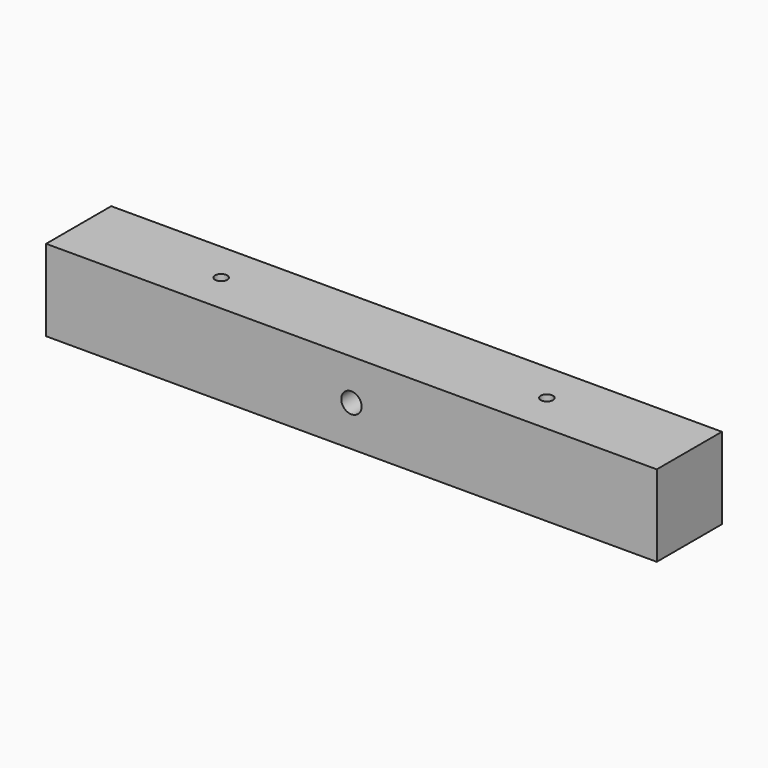
from build123d import *

# Parameters (mm, degrees)
F0_W     = 150
F0_H     = 20
F1_DEPTH = 20
F2_R     = 1.5
F3_DEPTH = 10
F4_R     = 2.5
F5_DEPTH = 25


with BuildPart() as f1:
    # F0 (on Top) → F1 (new body)
    with BuildSketch(Plane.XY):
        Rectangle(F0_W, F0_H)
    extrude(amount=F1_DEPTH)

    # F2 (on face) → F3 (cut)
    with BuildSketch(Plane.XY.offset(20)):
        with Locations((40, 0)):
            Circle(F2_R)
        with Locations((-40, 0)):
            Circle(F2_R)
    extrude(amount=-F3_DEPTH, mode=Mode.SUBTRACT)

    # F4 (on face) → F5 (cut)
    with BuildSketch(Plane.XZ.offset(10)):
        with Locations((0, 10)):
            Circle(F4_R)
    extrude(amount=-F5_DEPTH, mode=Mode.SUBTRACT)


solid = f1.part
